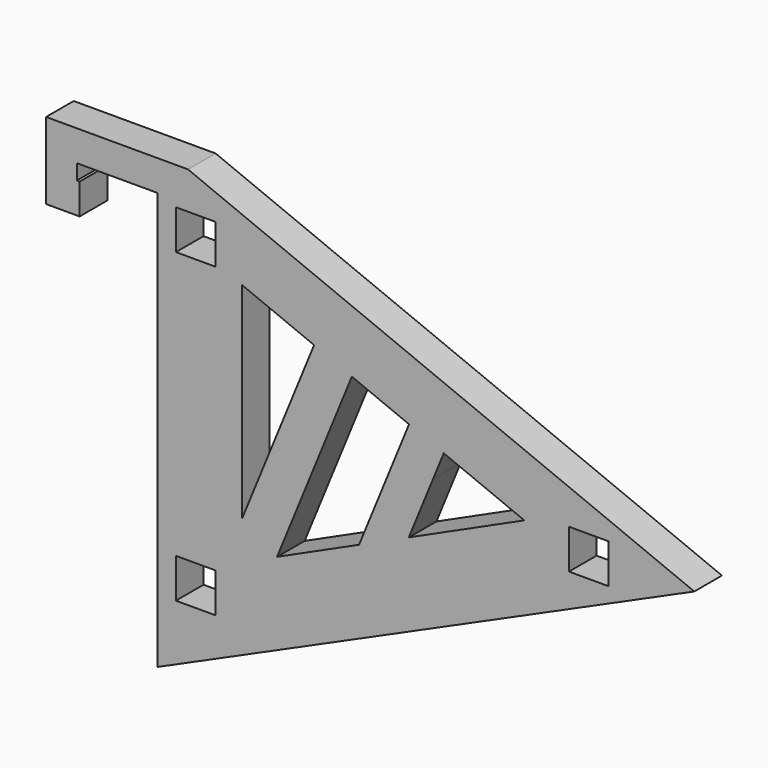
from build123d import *

# Parameters (mm, degrees)
F0_W     = 10.3
F0_H     = 10.3
F0_W_2   = 0.75
F0_H_2   = 8
F1_DEPTH = 9


with BuildPart() as f1:
    # F0 (on Front) → F1 (new body)
    with BuildSketch(Plane.XZ):
        Polygon((-22.7488241771, 49.3360479977), (-30.7488241771, 49.3360479977), (-30.7488241771, 41.3360479977), (-30.7488241771, -60.2917829884), (-30.7488241771, -67.4802789781), (109.2511758229, -4.6212578508), align=None)
        with Locations((-20.7488241771, -45.5300207496)):
            Rectangle(F0_W, F0_H, mode=Mode.SUBTRACT)
        with Locations((-20.7488241771, 34.4699792504)):
            Rectangle(F0_W, F0_H, mode=Mode.SUBTRACT)
        Polygon((-8.6376664854, -26.1920627463), (-8.6376664854, 27.3630689768), (10.1197385162, 19.6956520177), (19.9698888285, 15.6692310097), (34.8834536025, 9.57305089), (43.9300421098, 5.8750998068), (64.9299837446, -2.708993175), (34.8072479351, -16.4188460197), (21.847787114, -22.3171250448), (0.4639824944, -32.0496014191), (-8.6376664854, -36.1920627463), align=None, mode=Mode.SUBTRACT)
        with Locations((81.7206834825, -5.5300207496)):
            Rectangle(F0_W, F0_H, mode=Mode.SUBTRACT)
        Polygon((19.9698888285, 15.6692310097), (10.1197385162, 19.6956520177), (-8.6376664854, -26.1920627463), (-8.6376664854, -36.1920627463), (0.4639824944, -32.0496014191), align=None)
        Polygon((-30.7488241771, 41.3360479977), (-30.7488241771, 49.3360479977), (-59.7488241771, 49.3360479977), (-59.7488241771, 29.3360479977), (-51.7488241771, 29.3360479977), (-51.7488241771, 37.3360479977), (-51.7488241771, 41.3360479977), align=None)
        Polygon((43.9300421098, 5.8750998068), (34.8834536025, 9.57305089), (21.847787114, -22.3171250448), (34.8072479351, -16.4188460197), (34.8834536025, -16.2562809986), (41.1210870837, -0.9966677438), align=None)
        with Locations((-51.3738241771, 33.3360479977)):
            Rectangle(F0_W_2, F0_H_2)
    extrude(amount=F1_DEPTH)


solid = f1.part
